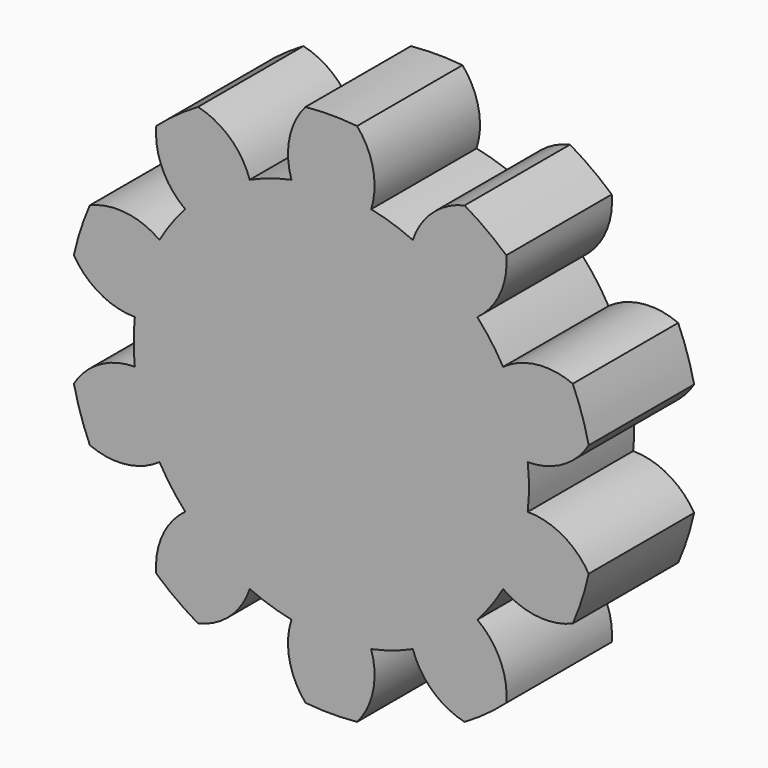
from build123d import *

# Parameters (mm, degrees)
F1_DEPTH = 5


with BuildPart() as f1:
    # F0 (on Front) → F1 (new body, symmetric)
    with BuildSketch(Plane.XZ):
        with BuildLine():
            ThreePointArc((3.025677, 14.691674), (3.173056, 17.437802), (1.956348, 19.904088))
            ThreePointArc((1.956348, 19.904088), (0, 20), (-1.956348, 19.904088))
            ThreePointArc((-1.956348, 19.904088), (-3.173056, 17.437802), (-3.025677, 14.691674))
            ThreePointArc((-3.025677, 14.691674), (-4.635255, 14.265848), (-6.187725, 13.664262))
            ThreePointArc((-6.187725, 13.664262), (-7.682627, 15.972554), (-10.116611, 17.252657))
            ThreePointArc((-10.116611, 17.252657), (-11.755705, 16.18034), (-13.282048, 14.952833))
            ThreePointArc((-13.282048, 14.952833), (-12.81674, 12.242403), (-11.083373, 10.107366))
            ThreePointArc((-11.083373, 10.107366), (-12.135255, 8.816779), (-13.037627, 7.417566))
            ThreePointArc((-13.037627, 7.417566), (-15.603807, 8.406333), (-18.325368, 8.011298))
            ThreePointArc((-18.325368, 8.011298), (-19.02113, 6.18034), (-19.534457, 4.290104))
            ThreePointArc((-19.534457, 4.290104), (-17.564864, 2.370821), (-14.907598, 1.662387))
            ThreePointArc((-14.907598, 1.662387), (-15, 0), (-14.907598, -1.662387))
            ThreePointArc((-14.907598, -1.662387), (-17.564864, -2.370821), (-19.534457, -4.290104))
            ThreePointArc((-19.534457, -4.290104), (-19.02113, -6.18034), (-18.325368, -8.011298))
            ThreePointArc((-18.325368, -8.011298), (-15.603807, -8.406333), (-13.037627, -7.417566))
            ThreePointArc((-13.037627, -7.417566), (-12.135255, -8.816779), (-11.083373, -10.107366))
            ThreePointArc((-11.083373, -10.107366), (-12.81674, -12.242403), (-13.282048, -14.952833))
            ThreePointArc((-13.282048, -14.952833), (-11.755705, -16.18034), (-10.116611, -17.252657))
            ThreePointArc((-10.116611, -17.252657), (-7.682627, -15.972554), (-6.187725, -13.664262))
            ThreePointArc((-6.187725, -13.664262), (-4.635255, -14.265848), (-3.025677, -14.691674))
            ThreePointArc((-3.025677, -14.691674), (-3.173056, -17.437802), (-1.956348, -19.904088))
            ThreePointArc((-1.956348, -19.904088), (0, -20), (1.956348, -19.904088))
            ThreePointArc((1.956348, -19.904088), (3.173056, -17.437802), (3.025677, -14.691674))
            ThreePointArc((3.025677, -14.691674), (4.635255, -14.265848), (6.187725, -13.664262))
            ThreePointArc((6.187725, -13.664262), (7.682627, -15.972554), (10.116611, -17.252657))
            ThreePointArc((10.116611, -17.252657), (11.755705, -16.18034), (13.282048, -14.952833))
            ThreePointArc((13.282048, -14.952833), (12.81674, -12.242403), (11.083373, -10.107366))
            ThreePointArc((11.083373, -10.107366), (12.135255, -8.816779), (13.037627, -7.417566))
            ThreePointArc((13.037627, -7.417566), (15.603807, -8.406333), (18.325368, -8.011298))
            ThreePointArc((18.325368, -8.011298), (19.02113, -6.18034), (19.534457, -4.290104))
            ThreePointArc((19.534457, -4.290104), (17.564864, -2.370821), (14.907598, -1.662387))
            ThreePointArc((14.907598, -1.662387), (15, 0), (14.907598, 1.662387))
            ThreePointArc((14.907598, 1.662387), (17.564864, 2.370821), (19.534457, 4.290104))
            ThreePointArc((19.534457, 4.290104), (19.02113, 6.18034), (18.325368, 8.011298))
            ThreePointArc((18.325368, 8.011298), (15.603807, 8.406333), (13.037627, 7.417566))
            ThreePointArc((13.037627, 7.417566), (12.135255, 8.816779), (11.083373, 10.107366))
            ThreePointArc((11.083373, 10.107366), (12.81674, 12.242403), (13.282048, 14.952833))
            ThreePointArc((13.282048, 14.952833), (11.755705, 16.18034), (10.116611, 17.252657))
            ThreePointArc((10.116611, 17.252657), (7.682627, 15.972554), (6.187725, 13.664262))
            ThreePointArc((6.187725, 13.664262), (4.635255, 14.265848), (3.025677, 14.691674))
        make_face()
    extrude(amount=F1_DEPTH, both=True)


solid = f1.part
